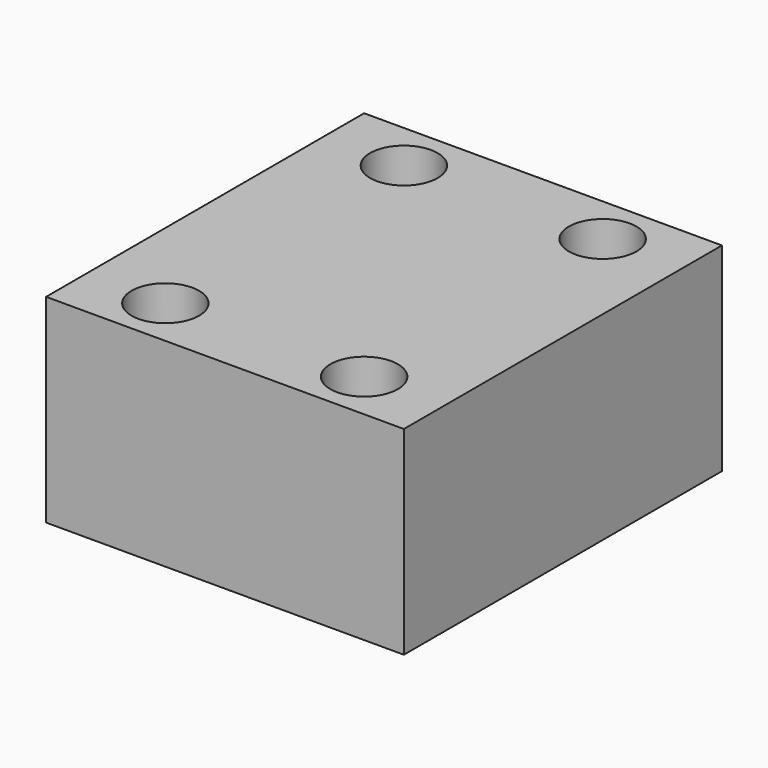
from build123d import *

# Parameters (mm, degrees)
SKETCH_W  = 18
SKETCH_H  = 20
SKETCH_R  = 1.7
PAD_DEPTH = 10


with BuildPart() as part:
    # Sketch → Pad (new body)
    with BuildSketch(Plane.XY):
        Rectangle(SKETCH_W, SKETCH_H)
        with Locations((-5, 7.5)):
            Circle(SKETCH_R, mode=Mode.SUBTRACT)
        with Locations((-5, -7.5)):
            Circle(SKETCH_R, mode=Mode.SUBTRACT)
        with Locations((5, 7.5)):
            Circle(SKETCH_R, mode=Mode.SUBTRACT)
        with Locations((5, -7.5)):
            Circle(SKETCH_R, mode=Mode.SUBTRACT)
    extrude(amount=PAD_DEPTH)


solid = part.part
